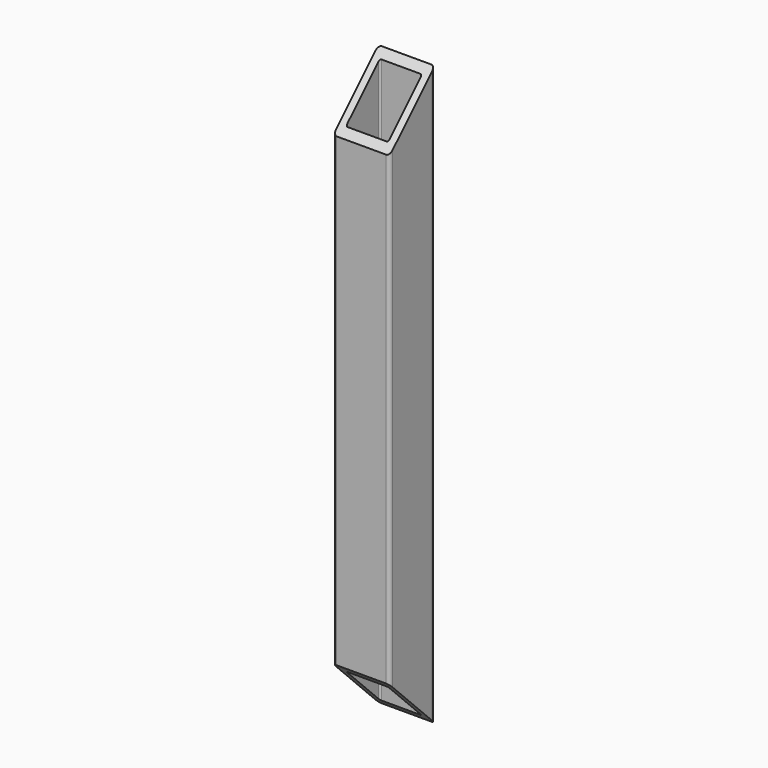
from build123d import *

# Parameters (mm, degrees)
F1_DEPTH = 260.35
F3_DEPTH = 50.801


with BuildPart() as f1:
    # F0 (on Top) → F1 (new body, symmetric)
    with BuildSketch(Plane.XY):
        with BuildLine():
            Line((22.225, 25.4), (-22.225, 25.4))
            ThreePointArc((-22.225, 25.4), (-24.470064, 24.470064), (-25.4, 22.225))
            Line((-25.4, 22.225), (-25.4, -22.225))
            ThreePointArc((-25.4, -22.225), (-24.470064, -24.470064), (-22.225, -25.4))
            Line((-22.225, -25.4), (22.225, -25.4))
            ThreePointArc((22.225, -25.4), (24.470064, -24.470064), (25.4, -22.225))
            Line((25.4, -22.225), (25.4, 22.225))
            ThreePointArc((25.4, 22.225), (24.470064, 24.470064), (22.225, 25.4))
        make_face()
        with BuildLine():
            ThreePointArc((-19.05, 17.4625), (-18.585032, 18.585032), (-17.4625, 19.05))
            Line((-17.4625, 19.05), (17.4625, 19.05))
            ThreePointArc((17.4625, 19.05), (18.585032, 18.585032), (19.05, 17.4625))
            Line((19.05, 17.4625), (19.05, -17.4625))
            ThreePointArc((19.05, -17.4625), (18.585032, -18.585032), (17.4625, -19.05))
            Line((17.4625, -19.05), (-17.4625, -19.05))
            ThreePointArc((-17.4625, -19.05), (-18.585032, -18.585032), (-19.05, -17.4625))
            Line((-19.05, -17.4625), (-19.05, 17.4625))
        make_face(mode=Mode.SUBTRACT)
    extrude(amount=F1_DEPTH, both=True)

    # F2 (on face) → F3 (cut, through all)
    with BuildSketch(Plane.YZ.offset(25.4)):
        Polygon((-25.4, 209.55), (25.4, 260.35), (-25.4, 260.35), align=None)
        Polygon((-25.4, -260.35), (25.4, -260.35), (-25.4, -209.55), align=None)
    extrude(amount=-F3_DEPTH, mode=Mode.SUBTRACT)


solid = f1.part
